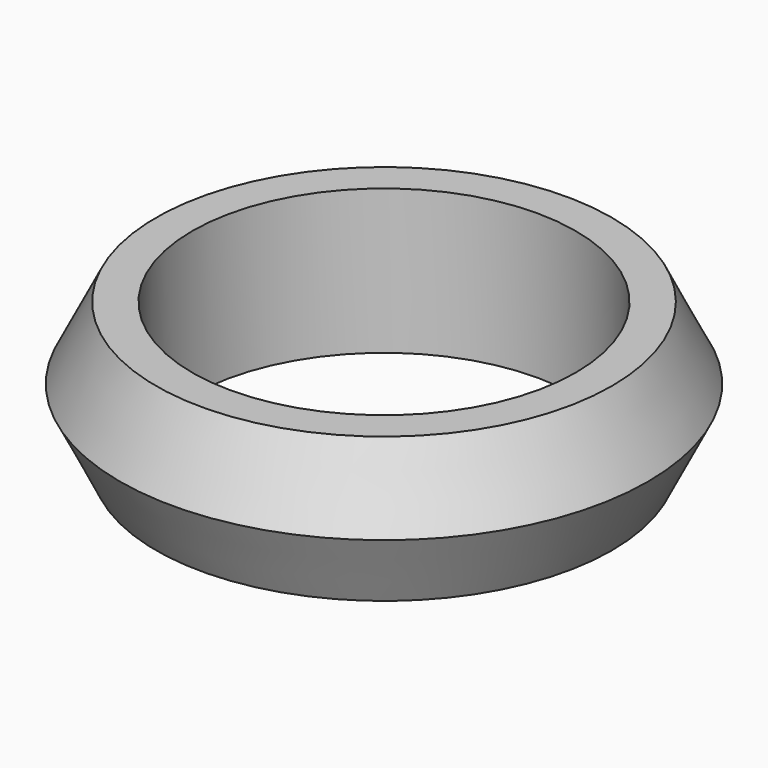
from build123d import *

# Parameters (mm, degrees)
F0_R     = 20.0025
F0_R_2   = 16.8275
F1_DEPTH = 6.35
F3_R     = 20.0025
F2_R     = 23.1775
F6_R     = 16.8275
F7_DEPTH = 12.701


with BuildPart() as f1:
    # F0 (on Top) → F1 (new body)
    with BuildSketch(Plane.XY):
        Circle(F0_R)
        Circle(F0_R_2, mode=Mode.SUBTRACT)
    extrude(amount=F1_DEPTH)

    # F3 (on face) → F4 section 0
    with BuildSketch(Plane.XY.offset(6.35)):
        Circle(F3_R)
    # F2 (on Top) → F4 section 1
    with BuildSketch(Plane.XY):
        Circle(F2_R)
    loft()

    # F5: F1 across plane


with BuildPart() as f1_1:
    add(f1.part)
    add(f1.part.mirror(Plane.XY))

    # F6 (on face) → F7 (cut, through all)
    with BuildSketch(Plane.XY.offset(6.35)):
        Circle(F6_R)
    extrude(amount=-F7_DEPTH, mode=Mode.SUBTRACT)


solid = f1_1.part
